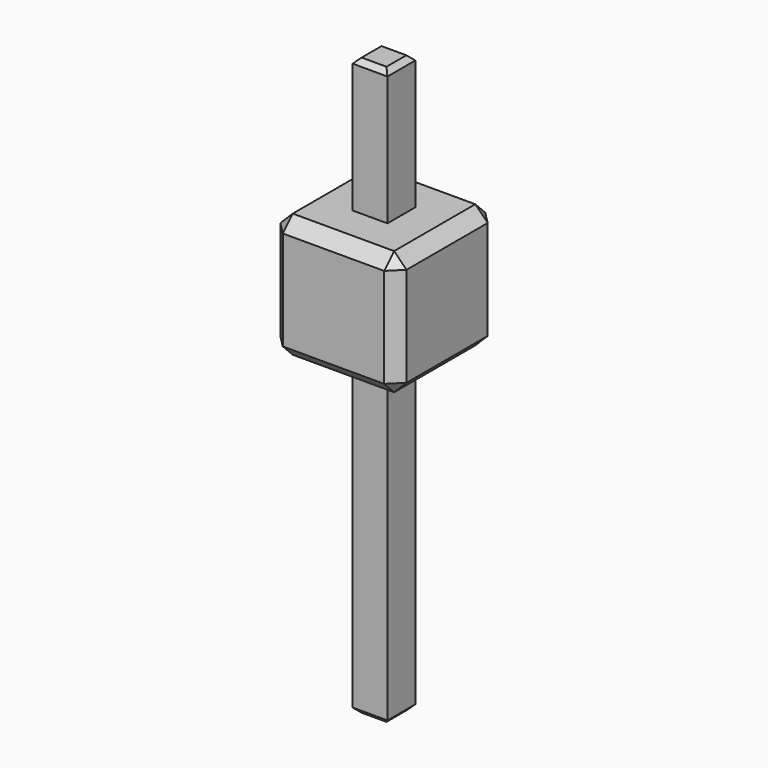
from build123d import *

# Parameters (mm, degrees)
F0_W          = 2.54
F0_H          = 2.54
F1_DEPTH      = 2.5
F2_SIZE       = 0.25
F3_W          = 0.7
F3_H          = 0.7
F4_DEPTH      = 2.7
F4_DEPTH_BACK = 8.9
F5_SIZE       = 0.1


with BuildPart() as f1:
    # F0 (on Top) → F1 (new body)
    with BuildSketch(Plane.XY):
        Rectangle(F0_W, F0_H)
    extrude(amount=F1_DEPTH)

    # F2
    f2_edges = [f1.edges().sort_by_distance(p)[0] for p in [
        (-1.27, -1.27, 1.25),
        (1.27, -1.27, 1.25),
        (1.27, 1.27, 1.25),
        (-1.27, 1.27, 1.25),
        (0, 1.27, 2.5),
        (1.27, 0, 2.5),
        (0, -1.27, 2.5),
        (-1.27, 0, 2.5),
        (1.27, 0, 0),
        (0, -1.27, 0),
        (-1.27, 0, 0),
        (0, 1.27, 0),
    ]]
    chamfer(f2_edges, length=F2_SIZE)

    # F3 (on face) → F4 (join, two sides)
    with BuildSketch(Plane.XY.offset(2.5)) as f4_sk:
        Rectangle(F3_W, F3_H)
    extrude(amount=F4_DEPTH)
    extrude(f4_sk.sketch, amount=-F4_DEPTH_BACK)

    # F5
    f5_edges = [f1.edges().sort_by_distance(p)[0] for p in [
        (0.35, 0, 5.2),
        (0, 0.35, 5.2),
        (-0.35, 0, 5.2),
        (0, -0.35, 5.2),
        (0.35, 0, -6.4),
        (0, -0.35, -6.4),
        (-0.35, 0, -6.4),
        (0, 0.35, -6.4),
    ]]
    chamfer(f5_edges, length=F5_SIZE)


solid = f1.part
